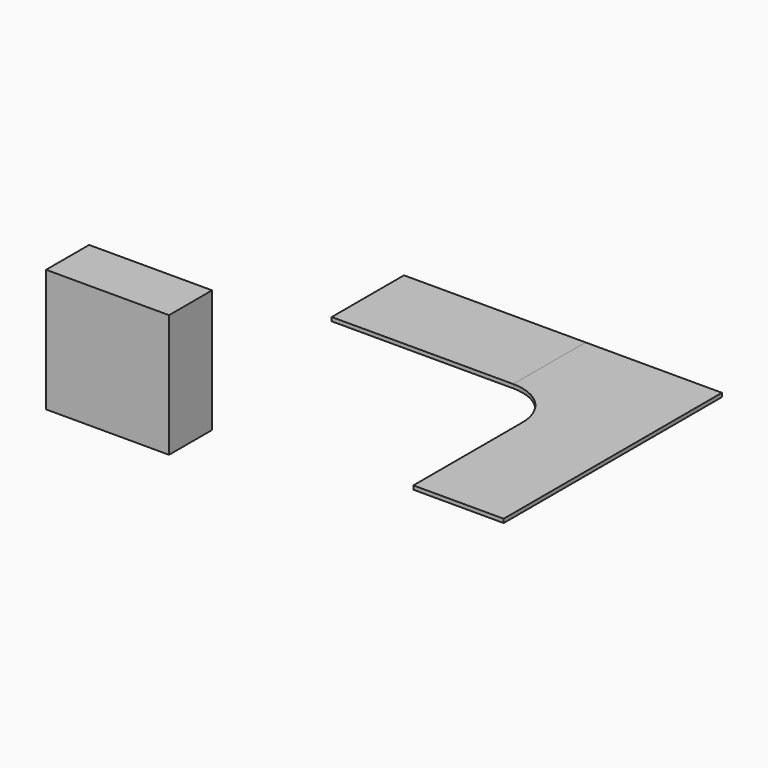
from build123d import *

# Parameters (mm, degrees)
F0_W     = 1200.15
F0_H     = 596.9
F1_DEPTH = 25.4
F2_DEPTH = 25.4
F3_W     = 812.8
F3_H     = 355.6
F4_DEPTH = 812.8


with BuildPart() as f1:
    # F0 (on Top) → F1 (new body)
    with BuildSketch(Plane.XY):
        with Locations((-600.075, 298.45)):
            Rectangle(F0_W, F0_H)
    extrude(amount=F1_DEPTH)


with BuildPart() as f2:
    # F0 (on Top) → F2 (new body)
    with BuildSketch(Plane.XY):
        with BuildLine():
            Line((0, 596.9), (0, 0))
            ThreePointArc((0, 0), (215.526147, -89.273853), (304.8, -304.8))
            Line((304.8, -304.8), (304.8, -1206.5))
            Line((304.8, -1206.5), (901.7, -1206.5))
            Line((901.7, -1206.5), (901.7, 596.9))
            Line((901.7, 596.9), (0, 596.9))
        make_face()
    extrude(amount=F2_DEPTH)


with BuildPart() as f4:
    # F3 (on face) → F4 (new body)
    with BuildSketch(Plane.XY):
        with Locations((-1330.259169, -1512.025296)):
            Rectangle(F3_W, F3_H)
    extrude(amount=F4_DEPTH)


solid = Compound([f1.part, f2.part, f4.part])
